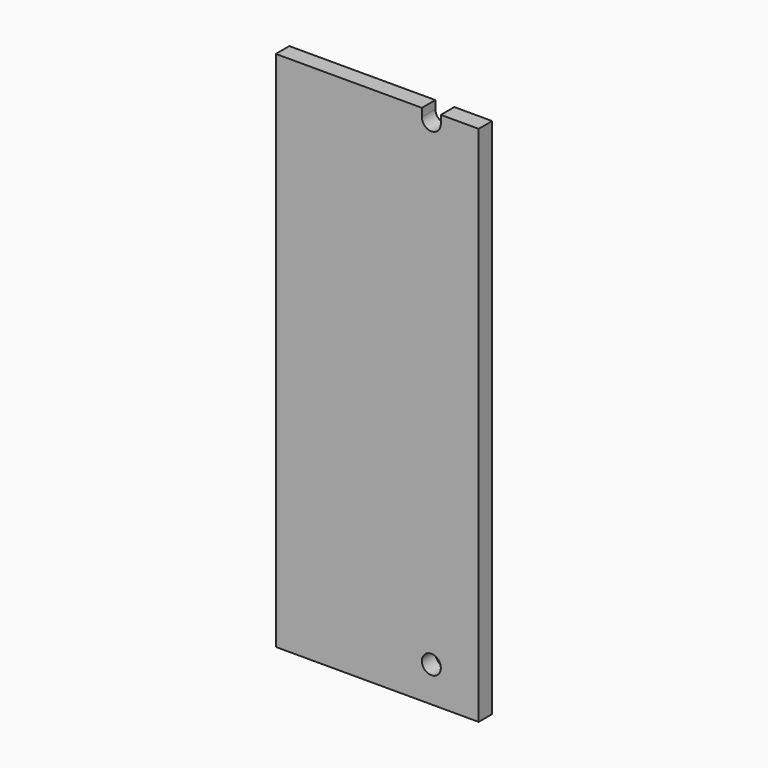
from build123d import *

# Parameters (mm, degrees)
F0_W     = 38.1
F0_H     = 98.044
F1_DEPTH = 3.175
F2_R     = 1.778
F3_DEPTH = 3.176


with BuildPart() as f1:
    # F0 (on Front) → F1 (new body)
    with BuildSketch(Plane.XZ):
        with Locations((-19.05, 49.022)):
            Rectangle(F0_W, F0_H)
    extrude(amount=F1_DEPTH)

    # F2 (on face) → F3 (cut, through all)
    with BuildSketch(Plane.XZ.offset(3.175)):
        with Locations((-8.89, 6.604)):
            Circle(F2_R)
        with BuildLine():
            ThreePointArc((-10.668, 96.52), (-8.89, 94.742), (-7.112, 96.52))
            Line((-7.112, 96.52), (-7.112, 98.044))
            Line((-7.112, 98.044), (-10.668, 98.044))
            Line((-10.668, 98.044), (-10.668, 96.52))
        make_face()
    extrude(amount=-F3_DEPTH, mode=Mode.SUBTRACT)


solid = f1.part
